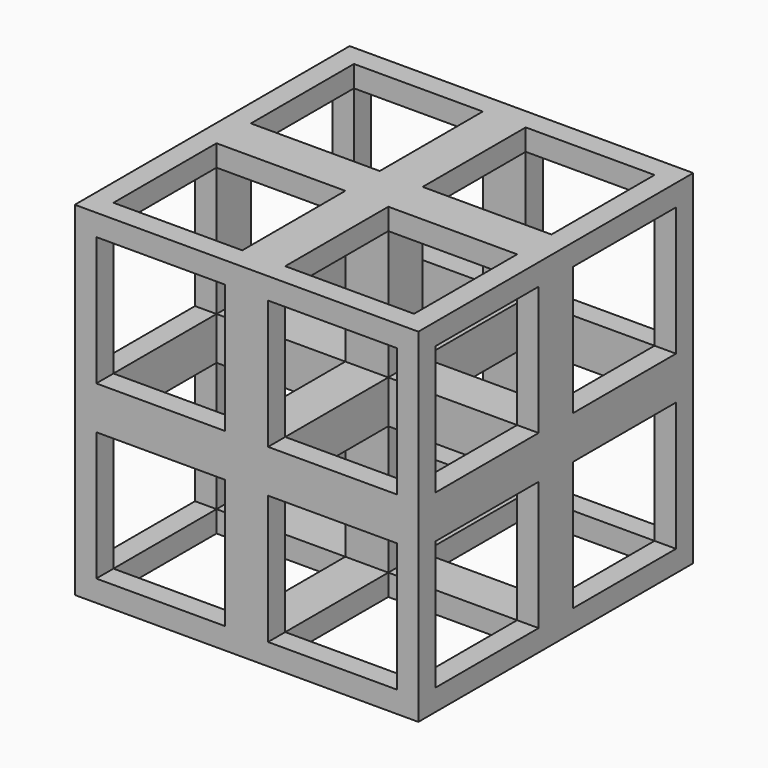
from build123d import *

# Parameters (mm, degrees)
F0_W     = 40
F0_H     = 40
F1_DEPTH = 40
F2_W     = 15
F2_H     = 15
F3_DEPTH = 40.001
F4_W     = 15
F4_H     = 15
F5_DEPTH = 40.001
F6_W     = 15
F6_H     = 15
F7_DEPTH = 40.001


with BuildPart() as f1:
    # F0 (on Front) → F1 (new body)
    with BuildSketch(Plane.XZ):
        Rectangle(F0_W, F0_H)
    extrude(amount=F1_DEPTH)

    # F2 (on face) → F3 (cut, through all)
    with BuildSketch(Plane.XZ.offset(40)):
        with Locations((-10, 10)):
            Rectangle(F2_W, F2_H)
        with Locations((10, 10)):
            Rectangle(F2_W, F2_H)
        with Locations((-10, -10)):
            Rectangle(F2_W, F2_H)
        with Locations((10, -10)):
            Rectangle(F2_W, F2_H)
    extrude(amount=-F3_DEPTH, mode=Mode.SUBTRACT)

    # F4 (on face) → F5 (cut, through all)
    with BuildSketch(Plane(origin=(-20, 0, 0), x_dir=(0, -1, 0), z_dir=(-1, 0, 0))):
        with Locations((10, 10)):
            Rectangle(F4_W, F4_H)
        with Locations((30, 10)):
            Rectangle(F4_W, F4_H)
        with Locations((10, -10)):
            Rectangle(F4_W, F4_H)
        with Locations((30, -10)):
            Rectangle(F4_W, F4_H)
    extrude(amount=-F5_DEPTH, mode=Mode.SUBTRACT)

    # F6 (on face) → F7 (cut, through all)
    with BuildSketch(Plane.XY.offset(20)):
        with Locations((-10, -10)):
            Rectangle(F6_W, F6_H)
        with Locations((10, -10)):
            Rectangle(F6_W, F6_H)
        with Locations((-10, -30)):
            Rectangle(F6_W, F6_H)
        with Locations((10, -30)):
            Rectangle(F6_W, F6_H)
    extrude(amount=-F7_DEPTH, mode=Mode.SUBTRACT)


solid = f1.part
